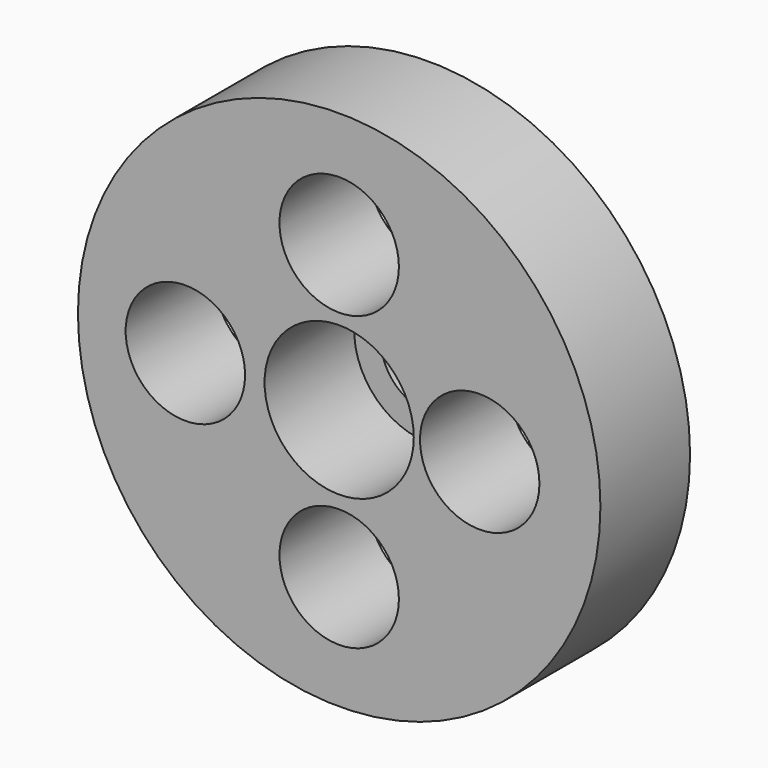
from build123d import *

# Parameters (mm, degrees)
F0_R     = 35.0012
F0_R_2   = 29.9974
F0_R_3   = 8.001
F0_R_4   = 9.9949
F1_DEPTH = 15.0114
F0_R_5   = 6.419043
F2_DEPTH = 4.4958


with BuildPart() as f1:
    # F0 (on Front) → F1 (new body)
    with BuildSketch(Plane.XZ):
        Circle(F0_R)
        Circle(F0_R_2, mode=Mode.SUBTRACT)
        Circle(F0_R_2)
        with Locations((0, -19.720752)):
            Circle(F0_R_3, mode=Mode.SUBTRACT)
        with Locations((-20.609856, 0)):
            Circle(F0_R_3, mode=Mode.SUBTRACT)
        Circle(F0_R_4, mode=Mode.SUBTRACT)
        with Locations((18.828755, 0)):
            Circle(F0_R_3, mode=Mode.SUBTRACT)
        with Locations((0, 19.463416)):
            Circle(F0_R_3, mode=Mode.SUBTRACT)
    extrude(amount=F1_DEPTH)


with BuildPart() as f2:
    # F0 (on Front) → F2 (new body)
    with BuildSketch(Plane.XZ):
        Circle(F0_R_4)
        Circle(F0_R_5, mode=Mode.SUBTRACT)
    extrude(amount=-F2_DEPTH)


solid = Compound([f1.part, f2.part])
